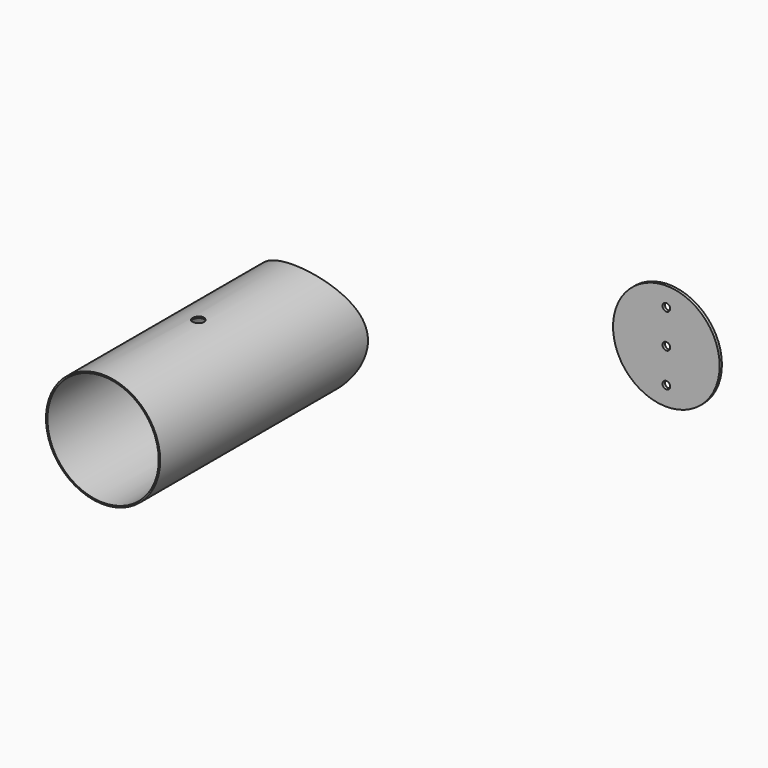
from build123d import *

# Parameters (mm, degrees)
F0_R     = 60
F0_R_2   = 58.5
F1_DEPTH = 350
F2_R     = 90
F3_DEPTH = 60
F4_R     = 6
F5_DEPTH = 60
F6_R     = 56
F6_R_2   = 4
F7_DEPTH = 3


with BuildPart() as f1:
    # F0 (on Front) → F1 (new body)
    with BuildSketch(Plane.XZ):
        Circle(F0_R)
        Circle(F0_R_2, mode=Mode.SUBTRACT)
    extrude(amount=F1_DEPTH)

    # F2 (on Top) → F3 (cut, symmetric)
    with BuildSketch(Plane.XY):
        with Locations((0, -10)):
            Circle(F2_R)
    extrude(amount=F3_DEPTH, both=True, mode=Mode.SUBTRACT)

    # F4 (on Top) → F5 (cut, symmetric)
    with BuildSketch(Plane.XY):
        with Locations((0, -225)):
            Circle(F4_R)
    extrude(amount=F5_DEPTH, both=True, mode=Mode.SUBTRACT)


with BuildPart() as f7:
    # F6 (on Front) → F7 (new body)
    with BuildSketch(Plane.XZ):
        with Locations((314.265341, 47.390533)):
            Circle(F6_R)
        with Locations((314.265341, 11.390533)):
            Circle(F6_R_2, mode=Mode.SUBTRACT)
        with Locations((314.265341, 47.390533)):
            Circle(F6_R_2, mode=Mode.SUBTRACT)
        with Locations((314.265341, 83.390533)):
            Circle(F6_R_2, mode=Mode.SUBTRACT)
    extrude(amount=F7_DEPTH)


solid = Compound([f1.part, f7.part])
